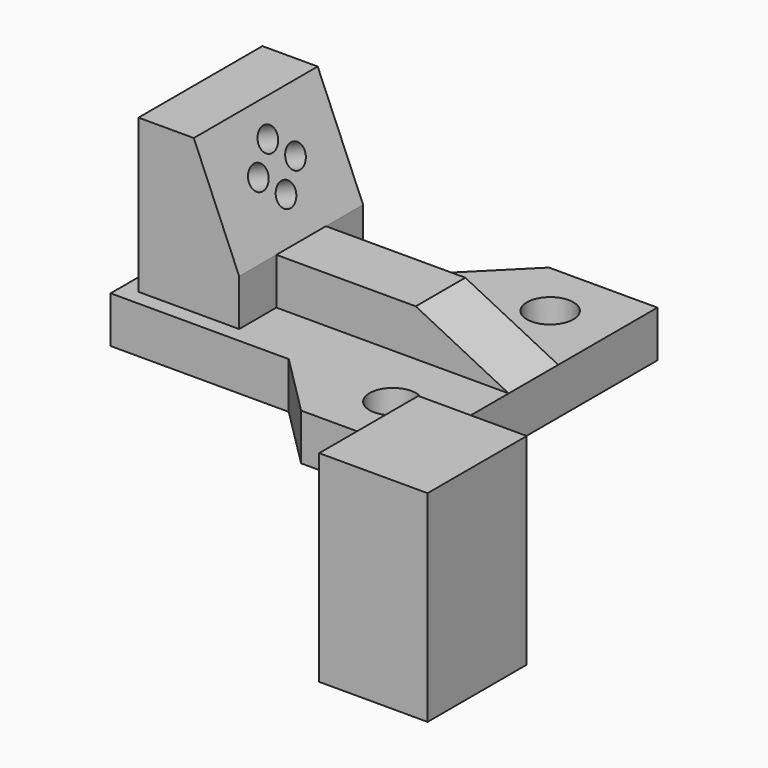
from build123d import *

# Parameters (mm, degrees)
F0_R          = 1.5
F1_DEPTH      = 3
F3_DEPTH      = 5
F3_DEPTH_BACK = 5
F5_D          = 1.5
F5_DEPTH      = 3
F5_TIP        = 0.4506454643
F7_DEPTH      = 3
F8_SIZE2      = 6
F8_SIZE       = 3
F0_W          = 7
F0_H          = 8
F9_DEPTH      = 13


with BuildPart() as f1:
    # F0 (on Top) → F1 (new body)
    with BuildSketch(Plane.XY):
        Polygon((4, -10), (4, 0), (4, 10), (-3, 10), (-7, 6), (-18.5, 6), (-18.5, 0), (-18.5, -6), (-7, -6), (-3, -10), align=None)
        with Locations((0, -6.35)):
            Circle(F0_R, mode=Mode.SUBTRACT)
        with Locations((0, 6.35)):
            Circle(F0_R, mode=Mode.SUBTRACT)
    extrude(amount=F1_DEPTH)

    # F2 (on Front) → F3 (join, two sides)
    with BuildSketch(Plane.XZ) as f3_sk:
        Polygon((-17.5, 12.9037864009), (-17.5, 3), (-11, 3), (-11, 6), (-13.9304834637, 12.9037864009), align=None)
    extrude(amount=F3_DEPTH)
    extrude(f3_sk.sketch, amount=-F3_DEPTH_BACK)

    # F5
    with Locations(Plane(origin=(-7.1626016365, 0, -3.0403440132), x_dir=(0, 1, 0), z_dir=(0.9205048535, 0, 0.3907311285))):
        with Locations((0, 15.3210715341), (1.5, 13.8210715341), (0, 12.3210715341), (-1.5, 13.8210715341)):
            Hole(F5_D / 2, depth=F5_DEPTH)
            with Locations((0, 0, -(F5_DEPTH + F5_TIP / 2))):  # 118° drill point
                Cone(0, F5_D / 2, F5_TIP, mode=Mode.SUBTRACT)

    # F6 (on face) → F7 (join)
    with BuildSketch(Plane.XY.offset(3)):
        Polygon((4, -2), (4, 2), (-4, 2), (-11, 2), (-11, -2), (-4, -2), align=None)
    extrude(amount=F7_DEPTH)

    # F8
    f8_edges = [f1.edges().sort_by_distance(p)[0] for p in [
        (4, 0, 6),
    ]]
    f8_side = f1.faces().sort_by_distance((4, 0, 2))[0]
    chamfer(f8_edges, length=F8_SIZE, length2=F8_SIZE2, reference=f8_side)


with BuildPart() as f9:
    # F0 (on Top) → F9 (new body)
    with BuildSketch(Plane.XY):
        with Locations((16.1121446267, -24.0593857169)):
            Rectangle(F0_W, F0_H)
    extrude(amount=F9_DEPTH)


solid = Compound([f1.part, f9.part])
